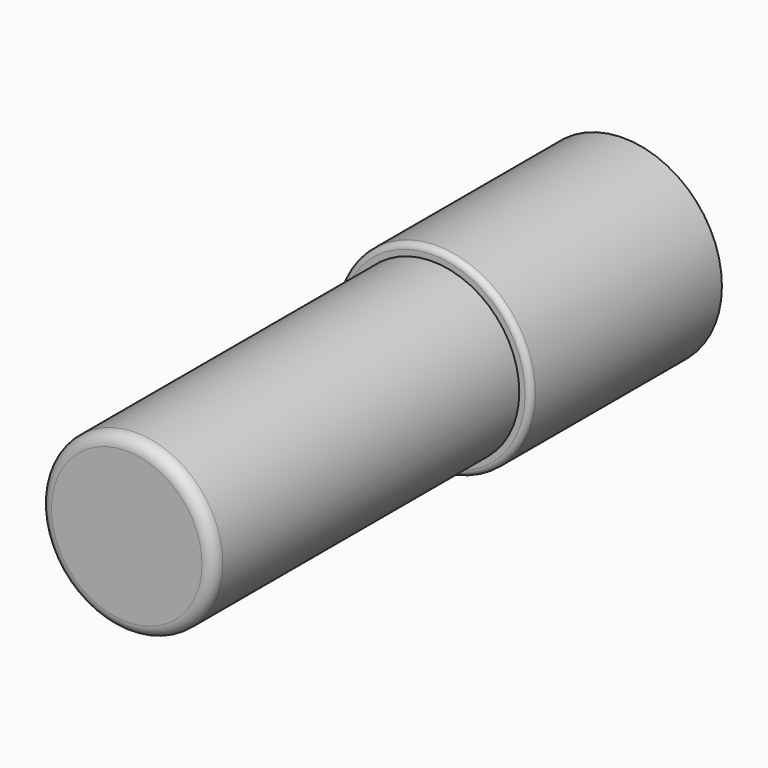
from build123d import *

# Parameters (mm, degrees)
SKETCH011_R  = 3.4
PAD009_DEPTH = 8.25
FILLET004_R  = 0.2
SKETCH012_R  = 3
PAD010_DEPTH = 13.2
FILLET005_R  = 0.4


with BuildPart() as part:
    # Sketch011 → Pad009 (new body)
    with BuildSketch(Plane.XZ):
        Circle(SKETCH011_R)
    extrude(amount=PAD009_DEPTH)

    # Fillet004
    fillet004_edges = [part.edges().sort_by_distance(p)[0] for p in [
        (-3.4, -8.25, 0),
    ]]
    fillet(fillet004_edges, radius=FILLET004_R)

    # Sketch012 (on Face4 of Fillet004) → Pad010 (join)
    with BuildSketch(Plane.XZ.offset(8.25)):
        Circle(SKETCH012_R)
    extrude(amount=PAD010_DEPTH)

    # Fillet005
    fillet005_edges = [part.edges().sort_by_distance(p)[0] for p in [
        (-3, -21.45, 0),
    ]]
    fillet(fillet005_edges, radius=FILLET005_R)


with BuildPart() as part_1:
    # Body019 placement: moved
    add(part.part.moved(Location((0, -1.25, 0))))


solid = part_1.part
